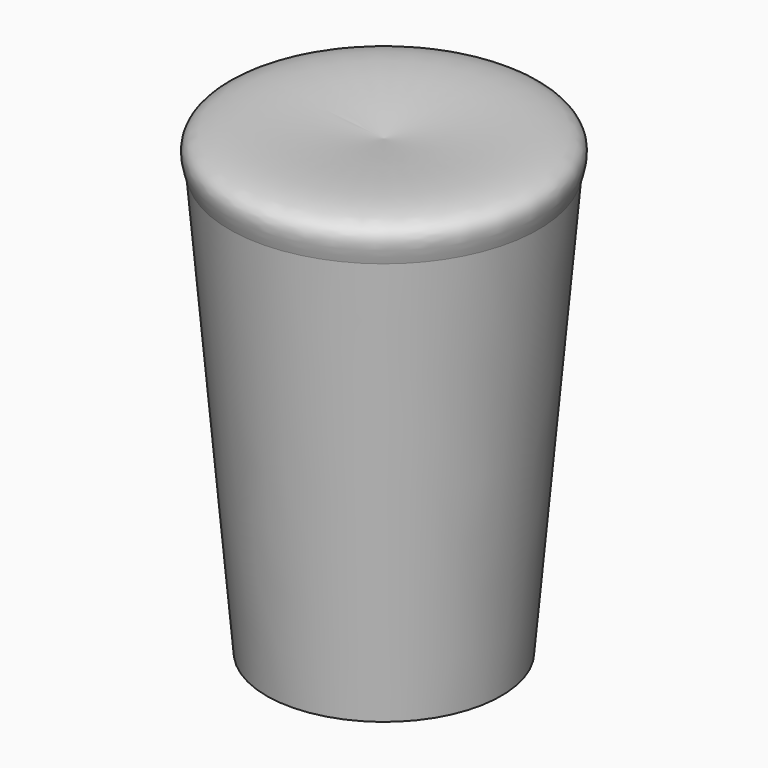
from build123d import *


with BuildPart() as f1:
    # F0 (on Front) → F1 (revolve)
    with BuildSketch(Plane.XZ):
        Polygon((0, 41.2735827267), (-21.2548803538, 41.2735827267), (-16.1469317973, -16.8597511947), (0, -16.8597511947), align=None)
        with BuildLine():
            Line((0, 41.2735827267), (0, 45.4085916281))
            add(Edge.make_bspline(
                [(0, 45.4085916281), (-9.543186736, 46.492845069), (-23.2956001477, 48.0553316863), (-21.7331135303, 42.8628540009), (-21.2548803538, 41.2735827267)],
                knots=[0, 0, 0, 0, 0.6939281456, 1, 1, 1, 1], degree=3))
            Line((-21.2548803538, 41.2735827267), (0, 41.2735827267))
        make_face()
    revolve(axis=Axis((0, 0, 12.206915766), (0, 0, 1)))


solid = f1.part
